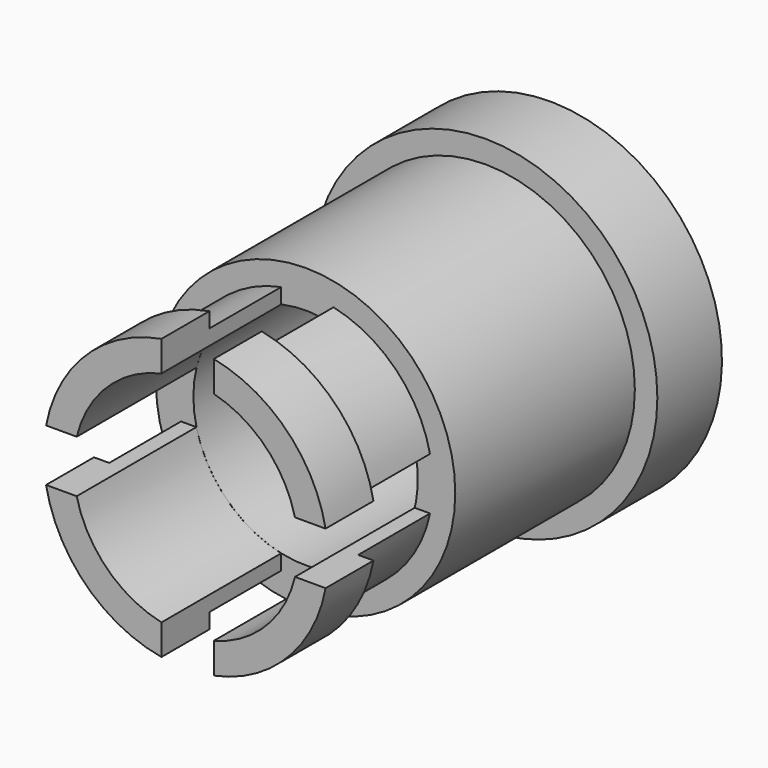
from build123d import *

# Parameters (mm, degrees)
CYLINDER025_R             = 2.3
CYLINDER025_DEPTH         = 2
TUBE005_R                 = 2
TUBE005_R_2               = 1.5
TUBE005_DEPTH             = 3
BOX033_W                  = 3
BOX033_H                  = 10
BOX033_DEPTH              = 0.7
BOX032_W                  = 3
BOX032_H                  = 10
BOX032_DEPTH              = 0.7
BOX031_W                  = 3
BOX031_H                  = 10
BOX031_DEPTH              = 0.7
BOX030_W                  = 3
BOX030_H                  = 10
BOX030_DEPTH              = 0.7
TUBE007_R                 = 1.9
TUBE007_R_2               = 1.5
TUBE007_DEPTH             = 0.8
TUBE006_R                 = 1.7
TUBE006_R_2               = 1.5
TUBE006_DEPTH             = 2
FUSION007_PLACEMENT_ANGLE = 180


with BuildPart() as cylinder025:
    # Cylinder025 → Cylinder025 (new body)
    with BuildSketch(Plane(origin=(0, -31.287, 1.982), x_dir=(1, 0, 0), z_dir=(0, -1, 0))):
        Circle(CYLINDER025_R)
    extrude(amount=CYLINDER025_DEPTH)


with BuildPart() as common001:
    # Sphere001 → Sphere001 (revolve)
    with BuildSketch(Plane(origin=(0, -25.755, 1.989), x_dir=(1, 0, 0), z_dir=(0, -1, 0))):
        with BuildLine():
            ThreePointArc((0, -7), (7, 0), (0, 7))
            Line((0, 7), (0, -7))
        make_face()
    revolve(axis=Axis((0, -25.755, 1.989), (0, 0, 1)))

    # Common001: intersect Cylinder025
    add(cylinder025.part, mode=Mode.INTERSECT)


with BuildPart() as common001_1:
    # Common001 placement: moved
    add(common001.part.moved(Location((0, 33.12, -0.018))))


with BuildPart() as fusion006:
    # Tube005 → Tube005 (new body)
    with BuildSketch(Plane(origin=(0, 4.834, 1.964), x_dir=(1, 0, 0), z_dir=(0, -1, 0))):
        Circle(TUBE005_R)
        Circle(TUBE005_R_2, mode=Mode.SUBTRACT)
    extrude(amount=TUBE005_DEPTH)

    # Fusion006: union Common001
    add(common001_1.part)


with BuildPart() as cube013:
    # Box033 → Box033 (new body)
    with BuildSketch(Plane(origin=(0.326, -0.784, 2.677), x_dir=(0, 0, 1), z_dir=(-1, 0, 0))):
        with Locations((1.5, 5)):
            Rectangle(BOX033_W, BOX033_H)
    extrude(amount=BOX033_DEPTH)


with BuildPart() as cube012:
    # Box032 → Box032 (new body)
    with BuildSketch(Plane(origin=(-3.072, -0.784, 1.616), x_dir=(1, 0, 0), z_dir=(0, 0, 1))):
        with Locations((1.5, 5)):
            Rectangle(BOX032_W, BOX032_H)
    extrude(amount=BOX032_DEPTH)


with BuildPart() as cube011:
    # Box031 → Box031 (new body)
    with BuildSketch(Plane(origin=(0, -0.784, 1.616), x_dir=(1, 0, 0), z_dir=(0, 0, 1))):
        with Locations((1.5, 5)):
            Rectangle(BOX031_W, BOX031_H)
    extrude(amount=BOX031_DEPTH)


with BuildPart() as cube010:
    # Box030 → Box030 (new body)
    with BuildSketch(Plane(origin=(0.326, -0.784, -1.491), x_dir=(0, 0, 1), z_dir=(-1, 0, 0))):
        with Locations((1.5, 5)):
            Rectangle(BOX030_W, BOX030_H)
    extrude(amount=BOX030_DEPTH)


with BuildPart() as tube007:
    # Tube007 → Tube007 (new body)
    with BuildSketch(Plane(origin=(0, 6.835, 1.964), x_dir=(1, 0, 0), z_dir=(0, -1, 0))):
        Circle(TUBE007_R)
        Circle(TUBE007_R_2, mode=Mode.SUBTRACT)
    extrude(amount=TUBE007_DEPTH)


with BuildPart() as lens001:
    # Tube006 → Tube006 (new body)
    with BuildSketch(Plane(origin=(0, 6.835, 1.964), x_dir=(1, 0, 0), z_dir=(0, -1, 0))):
        Circle(TUBE006_R)
        Circle(TUBE006_R_2, mode=Mode.SUBTRACT)
    extrude(amount=TUBE006_DEPTH)

    # Fusion005: union Tube007
    add(tube007.part)

    # Cut050: cut Cube010
    add(cube010.part, mode=Mode.SUBTRACT)

    # Cut051: cut Cube011
    add(cube011.part, mode=Mode.SUBTRACT)

    # Cut052: cut Cube012
    add(cube012.part, mode=Mode.SUBTRACT)

    # Cut053: cut Cube013
    add(cube013.part, mode=Mode.SUBTRACT)

    # Fusion007: union Fusion006
    add(fusion006.part)


with BuildPart() as lens001_1:
    # Fusion007 placement: moved
    add(lens001.part.moved(Location((25.654, -16.852, 17.668))).rotate(Axis((25.654, -16.852, 17.668), (0, 0, 1)), FUSION007_PLACEMENT_ANGLE))


solid = lens001_1.part
